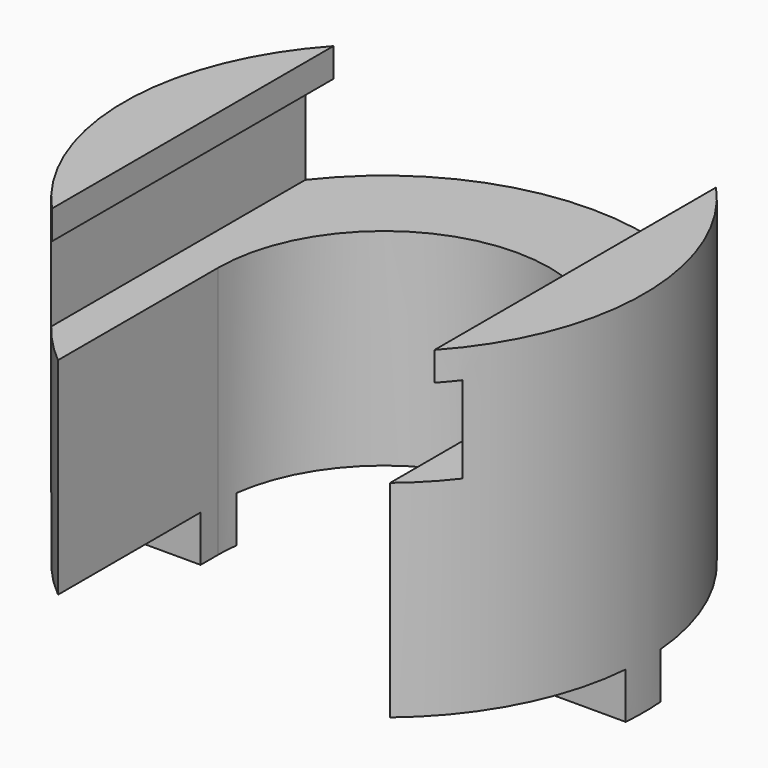
from build123d import *

# Parameters (mm, degrees)
F1_DEPTH = 25.5
F2_W     = 26.5
F2_H     = 2
F3_DEPTH = 18.001
F4_DEPTH = 13.848382
F6_DEPTH = 3.2


with BuildPart() as f1:
    # F0 (on Top) → F1 (new body)
    with BuildSketch(Plane.XY):
        with BuildLine():
            Line((11.5, 0), (11.5, -13.847382))
            ThreePointArc((11.5, -13.847382), (0, 18), (-11.5, -13.847382))
            Line((-11.5, -13.847382), (-11.5, 0))
            ThreePointArc((-11.5, 0), (0, 11.5), (11.5, 0))
        make_face()
    extrude(amount=F1_DEPTH)

    # F2 (on Front) → F3 (cut, through all)
    with BuildSketch(Plane.XZ):
        Polygon((-13.25, 23.5), (-14.25, 23.5), (-14.25, 17.5), (14.25, 17.5), (14.25, 23.5), (13.25, 23.5), align=None)
        with Locations((0, 24.5)):
            Rectangle(F2_W, F2_H)
    extrude(amount=-F3_DEPTH, mode=Mode.SUBTRACT)

    # F2 (on Front) → F4 (cut, through all)
    with BuildSketch(Plane.XZ):
        Polygon((-13.25, 23.5), (-14.25, 23.5), (-14.25, 17.5), (14.25, 17.5), (14.25, 23.5), (13.25, 23.5), align=None)
        with Locations((0, 24.5)):
            Rectangle(F2_W, F2_H)
    extrude(amount=F4_DEPTH, mode=Mode.SUBTRACT)

    # F5 (on face) → F6 (cut)
    with BuildSketch(Plane(origin=(0, 0, 0), x_dir=(1, 0, 0), z_dir=(0, 0, -1))):
        with BuildLine():
            ThreePointArc((-11.5, 13.847382), (-15.961029, 8.32139), (-17.937391, 1.5))
            Line((-17.937391, 1.5), (-11.5, 1.5))
            Line((-11.5, 1.5), (-11.5, 13.847382))
        make_face()
        with BuildLine():
            ThreePointArc((-17.937391, -1.5), (-12.727922, -12.727922), (-1.5, -17.937391))
            Line((-1.5, -17.937391), (-1.5, -11.401754))
            ThreePointArc((-1.5, -11.401754), (-8.131728, -8.131728), (-11.401754, -1.5))
            Line((-11.401754, -1.5), (-17.937391, -1.5))
        make_face()
        with BuildLine():
            Line((1.5, -11.401754), (1.5, -17.937391))
            ThreePointArc((1.5, -17.937391), (12.727922, -12.727922), (17.937391, -1.5))
            Line((17.937391, -1.5), (11.401754, -1.5))
            ThreePointArc((11.401754, -1.5), (8.131728, -8.131728), (1.5, -11.401754))
        make_face()
        with BuildLine():
            Line((11.5, 1.5), (17.937391, 1.5))
            ThreePointArc((17.937391, 1.5), (15.961029, 8.32139), (11.5, 13.847382))
            Line((11.5, 13.847382), (11.5, 1.5))
        make_face()
    extrude(amount=-F6_DEPTH, mode=Mode.SUBTRACT)


solid = f1.part
